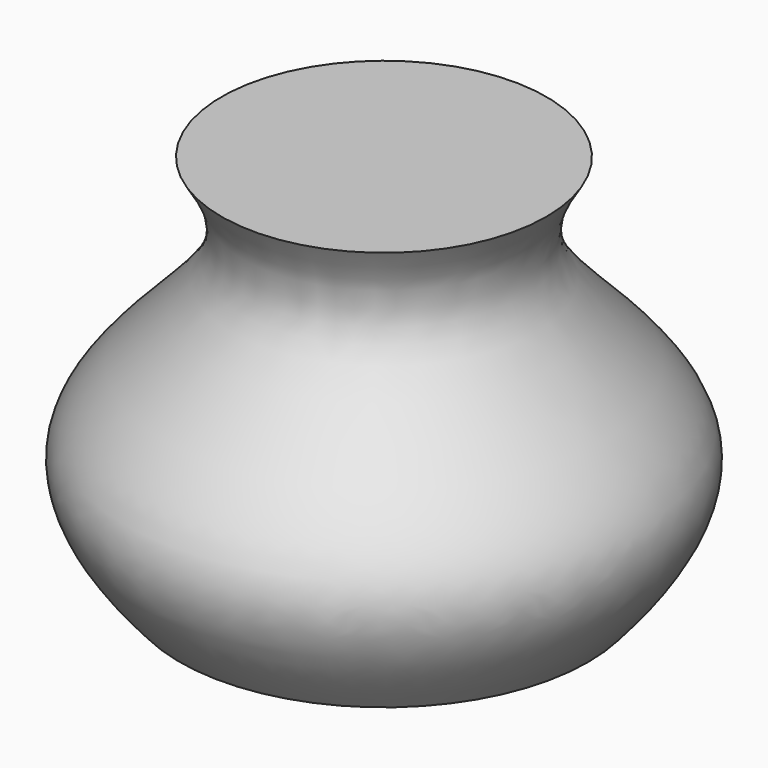
from build123d import *


with BuildPart() as f1:
    # F0 (on Front) → F1 (revolve)
    with BuildSketch(Plane.XZ):
        with BuildLine():
            add(Edge.make_bspline(
                [(36.5599485837, 44.8315367103), (32.3476713562, 38.4372495772), (24.7402078545, 20.7569176846), (69.9573948085, -6.6542318711), (54.9627323665, -30.2144913393), (45.9771997857, -40.3343327343)],
                knots=[0.079563941, 0.079563941, 0.079563941, 0.079563941, 0.2803603321, 0.6314675413, 0.8886133321, 0.8886133321, 0.8886133321, 0.8886133321], degree=3))
            Line((36.5599485837, 44.8315367103), (0, 44.8315367103))
            Line((0, 44.8315367103), (0, -40.3343327343))
            Line((0, -40.3343327343), (45.9771997857, -40.3343327343))
        make_face()
    revolve(axis=Axis((0, 0, 2.5296807289), (0, 0, -1)))


solid = f1.part
